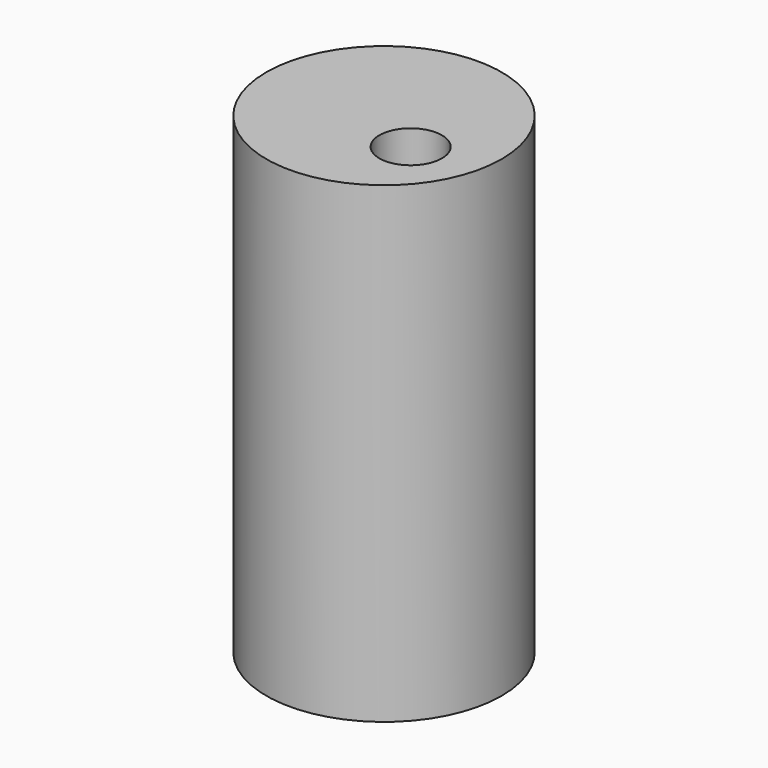
from build123d import *

# Parameters (mm, degrees)
F0_R     = 31.637149
F0_R_2   = 8.415372
F1_DEPTH = 127


with BuildPart() as f1:
    # F0 (on Top) → F1 (new body)
    with BuildSketch(Plane.XY):
        Circle(F0_R)
        with Locations((13.213498, -7.563588)):
            Circle(F0_R_2, mode=Mode.SUBTRACT)
        Circle(F0_R)
        with Locations((13.213498, -7.563588)):
            Circle(F0_R_2, mode=Mode.SUBTRACT)
    extrude(amount=F1_DEPTH)


solid = f1.part
